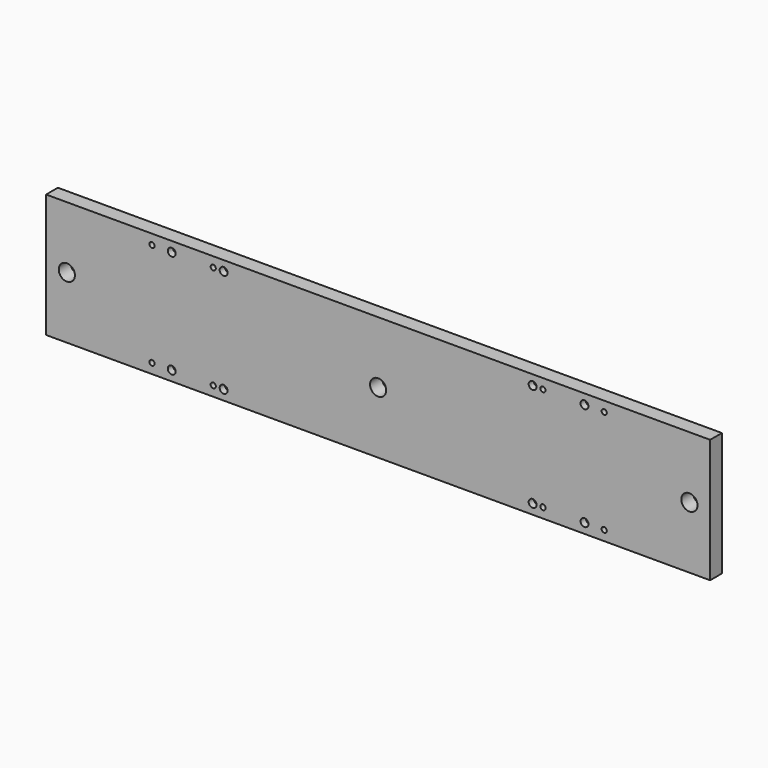
from build123d import *

# Parameters (mm, degrees)
F0_W     = 406.4
F0_H     = 75.692
F0_R     = 1.5875
F0_R_2   = 2.413
F0_R_3   = 4.953
F1_DEPTH = 9.017
F2_R     = 4.064
F3_DEPTH = 5.08


with BuildPart() as f1:
    # F0 (on Front) → F1 (new body)
    with BuildSketch(Plane.XZ):
        Rectangle(F0_W, F0_H)
        with Locations((-138.3665, -31.75)):
            Circle(F0_R, mode=Mode.SUBTRACT)
        with Locations((-126.3015, -31.75)):
            Circle(F0_R_2, mode=Mode.SUBTRACT)
        with Locations((-100.9015, -31.75)):
            Circle(F0_R, mode=Mode.SUBTRACT)
        with Locations((-94.5515, -31.75)):
            Circle(F0_R_2, mode=Mode.SUBTRACT)
        with Locations((94.5515, -31.75)):
            Circle(F0_R_2, mode=Mode.SUBTRACT)
        with Locations((100.9015, -31.75)):
            Circle(F0_R, mode=Mode.SUBTRACT)
        with Locations((126.3015, -31.75)):
            Circle(F0_R_2, mode=Mode.SUBTRACT)
        with Locations((138.3665, -31.75)):
            Circle(F0_R, mode=Mode.SUBTRACT)
        with Locations((-190.5, 0)):
            Circle(F0_R_3, mode=Mode.SUBTRACT)
        Circle(F0_R_3, mode=Mode.SUBTRACT)
        with Locations((-138.3665, 31.75)):
            Circle(F0_R, mode=Mode.SUBTRACT)
        with Locations((-126.3015, 31.75)):
            Circle(F0_R_2, mode=Mode.SUBTRACT)
        with Locations((-100.9015, 31.75)):
            Circle(F0_R, mode=Mode.SUBTRACT)
        with Locations((-94.5515, 31.75)):
            Circle(F0_R_2, mode=Mode.SUBTRACT)
        with Locations((190.5, 0)):
            Circle(F0_R_3, mode=Mode.SUBTRACT)
        with Locations((94.5515, 31.75)):
            Circle(F0_R_2, mode=Mode.SUBTRACT)
        with Locations((100.9015, 31.75)):
            Circle(F0_R, mode=Mode.SUBTRACT)
        with Locations((126.3015, 31.75)):
            Circle(F0_R_2, mode=Mode.SUBTRACT)
        with Locations((138.3665, 31.75)):
            Circle(F0_R, mode=Mode.SUBTRACT)
    extrude(amount=F1_DEPTH)

    # F2 (on face) → F3 (cut)
    with BuildSketch(Plane(origin=(0, 0, 0), x_dir=(-1, 0, 0), z_dir=(0, 1, 0))):
        with Locations((126.3015, 31.75)):
            Circle(F2_R)
        with Locations((94.5515, 31.75)):
            Circle(F2_R)
        with Locations((126.3015, -31.75)):
            Circle(F2_R)
        with Locations((94.5515, -31.75)):
            Circle(F2_R)
        with Locations((-126.3015, 31.75)):
            Circle(F2_R)
        with Locations((-94.5515, 31.75)):
            Circle(F2_R)
        with Locations((-94.5515, -31.75)):
            Circle(F2_R)
        with Locations((-126.3015, -31.75)):
            Circle(F2_R)
    extrude(amount=-F3_DEPTH, mode=Mode.SUBTRACT)


solid = f1.part
